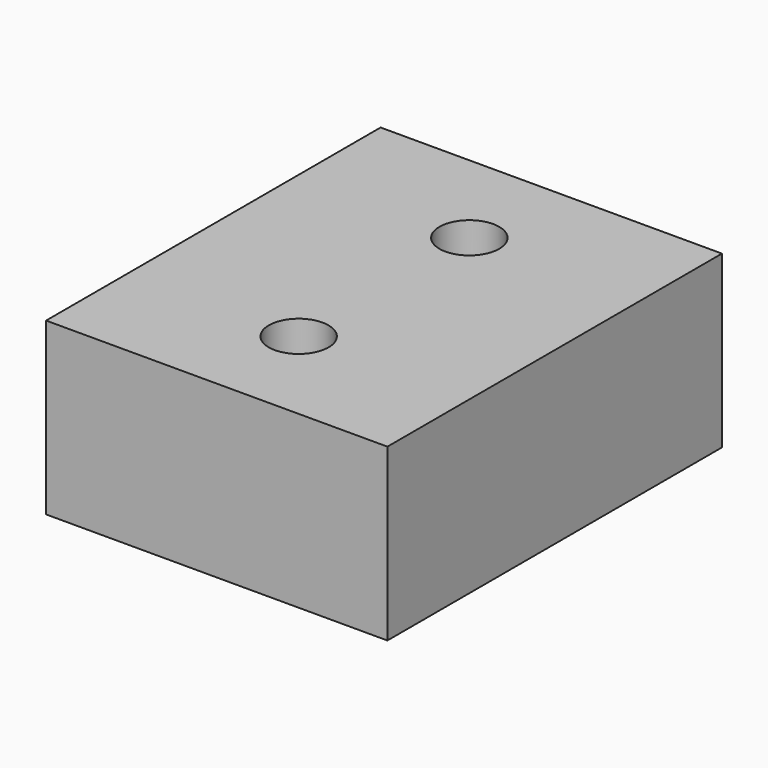
from build123d import *

# Parameters (mm, degrees)
F0_W     = 40
F0_H     = 49
F1_DEPTH = 20
F3_D     = 7
F3_DEPTH = 23
F3_TIP   = 2.1030121666


with BuildPart() as f1:
    # F0 (on Top) → F1 (new body)
    with BuildSketch(Plane.XY):
        Rectangle(F0_W, F0_H)
    extrude(amount=-F1_DEPTH)

    # F3
    with Locations(Plane.XY):
        with Locations((0, -12.5), (0, 12.5)):
            Hole(F3_D / 2, depth=F3_DEPTH)
            with Locations((0, 0, -(F3_DEPTH + F3_TIP / 2))):  # 118° drill point
                Cone(0, F3_D / 2, F3_TIP, mode=Mode.SUBTRACT)


solid = f1.part
